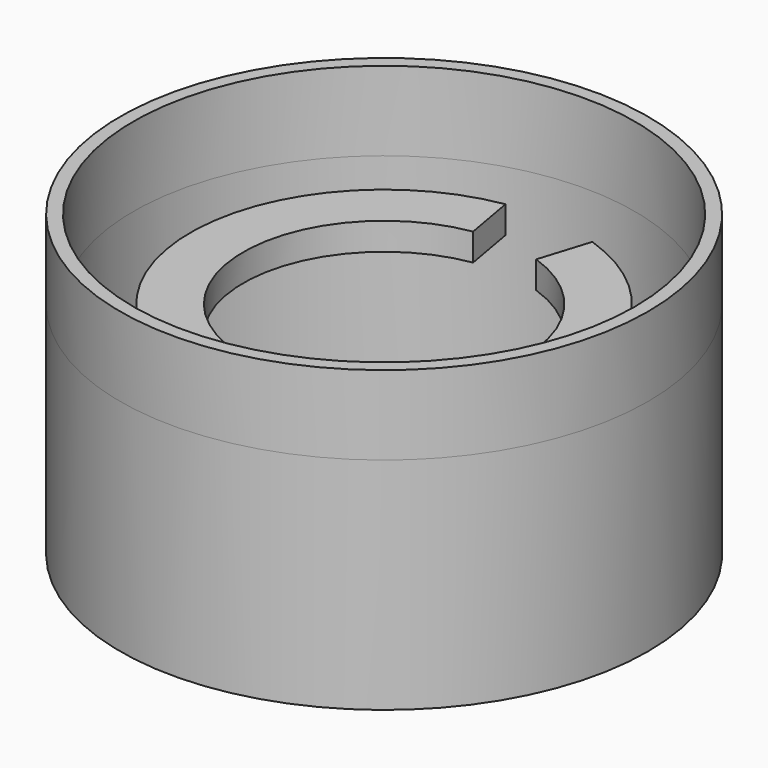
from build123d import *

# Parameters (mm, degrees)
F0_R        = 30
F0_R_2      = 28.5
F1_DEPTH    = 25
F2_DEPTH    = 3.1
F1_FACE_R   = 30
F1_FACE_R_2 = 28.5
F3_DEPTH    = 9


with BuildPart() as f1:
    # F0 (on Top) → F1 (new body)
    with BuildSketch(Plane.XY):
        with Locations((-2.70428, 6.615141)):
            Circle(F0_R)
        with Locations((-2.70428, 6.615141)):
            Circle(F0_R_2, mode=Mode.SUBTRACT)
    extrude(amount=-F1_DEPTH)

    # F1_face (on face) → F3 (join)
    with BuildSketch(Plane(origin=(-2.70428, 6.615141, 0), x_dir=(1, 0, 0), z_dir=(0, 0, 1))):
        Circle(F1_FACE_R)
        Circle(F1_FACE_R_2, mode=Mode.SUBTRACT)
    extrude(amount=F3_DEPTH)


with BuildPart() as f2:
    # F0 (on Top) → F2 (new body)
    with BuildSketch(Plane.XY):
        with BuildLine():
            ThreePointArc((-6.276818, 28.323135), (-16.941628, -10.156797), (19.29572, 6.615141))
            ThreePointArc((19.29572, 6.615141), (15.145667, 19.475133), (4.26123, 27.483339))
            Line((4.26123, 27.483339), (2.470784, 21.755112))
            ThreePointArc((2.470784, 21.755112), (10.311115, 15.921026), (13.29572, 6.615141))
            ThreePointArc((13.29572, 6.615141), (-13.086032, -5.55939), (-5.231683, 22.414263))
            Line((-5.231683, 22.414263), (-6.276818, 28.323135))
        make_face()
    extrude(amount=-F2_DEPTH)


solid = Compound([f1.part, f2.part])
